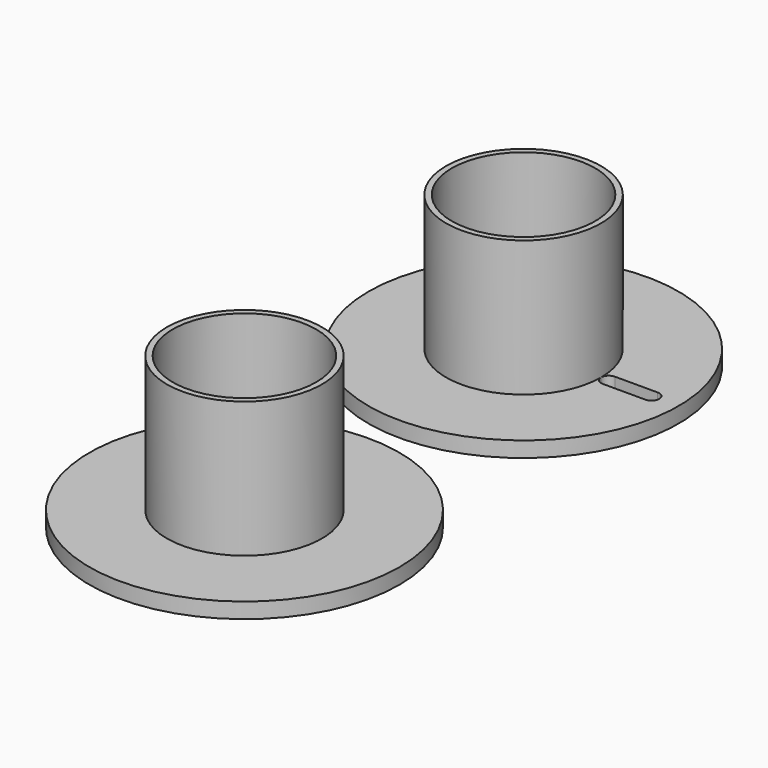
from build123d import *

# Parameters (mm, degrees)
BOX004_W                          = 899
BOX004_H                          = 898
BOX004_DEPTH                      = 1000
BOX002_W                          = 82
BOX002_H                          = 4
BOX002_DEPTH                      = 15
FILLET001_R                       = 1.99
CYLINDER004_R                     = 18.5
CYLINDER004_DEPTH                 = 100
CYLINDER006_R                     = 20
CYLINDER006_DEPTH                 = 35
CYLINDER005_R                     = 40
CYLINDER005_DEPTH                 = 4
PART_MIRRORING003_PLACEMENT_ANGLE = 180
PART_MIRRORING004_PLACEMENT_ANGLE = 180
CUT004_PLACEMENT_ANGLE            = 90
BOX005_W                          = 899
BOX005_H                          = 898
BOX005_DEPTH                      = 1000
BOX003_W                          = 82
BOX003_H                          = 4
BOX003_DEPTH                      = 15
FILLET002_R                       = 1.99
CYLINDER008_R                     = 18.5
CYLINDER008_DEPTH                 = 100
CYLINDER007_R                     = 20
CYLINDER007_DEPTH                 = 35
CYLINDER009_R                     = 40
CYLINDER009_DEPTH                 = 4
PART_MIRRORING005_PLACEMENT_ANGLE = 180
PART_MIRRORING006_PLACEMENT_ANGLE = 180
CUT006_PLACEMENT_ANGLE            = 90


with BuildPart() as cube004:
    # Box004 → Box004 (new body)
    with BuildSketch(Plane(origin=(-72, -699, 0), x_dir=(1, 0, 0), z_dir=(0, 0, 1))):
        with Locations((449.5, 449)):
            Rectangle(BOX004_W, BOX004_H)
    extrude(amount=BOX004_DEPTH)


with BuildPart() as fillet001:
    # Box002 → Box002 (new body)
    with BuildSketch(Plane(origin=(0, -2, 20), x_dir=(1, 0, 0), z_dir=(0, 0, 1))):
        with Locations((41, 2)):
            Rectangle(BOX002_W, BOX002_H)
    extrude(amount=BOX002_DEPTH)

    # Fillet001
    fillet001_edges = [fillet001.edges().sort_by_distance(p)[0] for p in [
        (41, -2, 20),
        (41, -2, 35),
        (41, 2, 20),
        (41, 2, 35),
    ]]
    fillet(fillet001_edges, radius=FILLET001_R)


with BuildPart() as fillet001_1:
    # Fillet001 placement: moved
    add(fillet001.part.moved(Location((0, -90, 0))))


with BuildPart() as rack_straight001:
    # Cylinder004 → Cylinder004 (new body)
    with BuildSketch(Plane(origin=(-53, 0, 0), x_dir=(0, 0, -1), z_dir=(1, 0, 0))):
        Circle(CYLINDER004_R)
    extrude(amount=CYLINDER004_DEPTH)


with BuildPart() as inside001:
    # Cylinder006 → Cylinder006 (new body)
    with BuildSketch(Plane.ZY):
        Circle(CYLINDER006_R)
    extrude(amount=CYLINDER006_DEPTH)


with BuildPart() as outside001:
    # Cylinder005 → Cylinder005 (new body)
    with BuildSketch(Plane(origin=(-39, 0, 0), x_dir=(0, 0, -1), z_dir=(1, 0, 0))):
        Circle(CYLINDER005_R)
    extrude(amount=CYLINDER005_DEPTH)


with BuildPart() as part_mirroring003:
    # Part__Mirroring003: instance of outside001
    add(outside001.part.mirror(Plane(origin=(0, 0, 0), x_dir=(1, 0, 0), z_dir=(0, 1, 0))))


with BuildPart() as part_mirroring003_1:
    # Part__Mirroring003 placement: moved
    add(part_mirroring003.part.rotate(Axis((0, 0, 0), (0, 0, 1)), PART_MIRRORING003_PLACEMENT_ANGLE))


with BuildPart() as obj1:
    # Part__Mirroring004: instance of inside001
    add(inside001.part.mirror(Plane(origin=(0, 0, 0), x_dir=(1, 0, 0), z_dir=(0, 1, 0))))


with BuildPart() as obj1_1:
    # Part__Mirroring004 placement: moved
    add(obj1.part.rotate(Axis((0, 0, 0), (0, 1, 0)), PART_MIRRORING004_PLACEMENT_ANGLE))

    # Fusion001: union inside001, Part__Mirroring003, outside001
    add(inside001.part)
    add(part_mirroring003_1.part)
    add(outside001.part)

    # Cut003: cut rack_straight001
    add(rack_straight001.part, mode=Mode.SUBTRACT)


with BuildPart() as obj1_2:
    # Cut003 placement: moved
    add(obj1_1.part.moved(Location((0, -90, 0))))

    # Cut004: cut Fillet001
    add(fillet001_1.part, mode=Mode.SUBTRACT)


with BuildPart() as obj1_3:
    # Cut004 placement: moved
    add(obj1_2.part.rotate(Axis((0, 0, 0), (0, 1, 0)), CUT004_PLACEMENT_ANGLE))

    # Cut007: cut Cube004
    add(cube004.part, mode=Mode.SUBTRACT)


with BuildPart() as cube005:
    # Box005 → Box005 (new body)
    with BuildSketch(Plane(origin=(-72, -699, 0), x_dir=(1, 0, 0), z_dir=(0, 0, 1))):
        with Locations((449.5, 449)):
            Rectangle(BOX005_W, BOX005_H)
    extrude(amount=BOX005_DEPTH)


with BuildPart() as fillet002:
    # Box003 → Box003 (new body)
    with BuildSketch(Plane(origin=(0, -2, 20), x_dir=(1, 0, 0), z_dir=(0, 0, 1))):
        with Locations((41, 2)):
            Rectangle(BOX003_W, BOX003_H)
    extrude(amount=BOX003_DEPTH)

    # Fillet002
    fillet002_edges = [fillet002.edges().sort_by_distance(p)[0] for p in [
        (41, -2, 20),
        (41, -2, 35),
        (41, 2, 20),
        (41, 2, 35),
    ]]
    fillet(fillet002_edges, radius=FILLET002_R)


with BuildPart() as fillet002_1:
    # Fillet002 placement: moved
    add(fillet002.part.moved(Location((0, -90, 0))))


with BuildPart() as rack_straight002:
    # Cylinder008 → Cylinder008 (new body)
    with BuildSketch(Plane(origin=(-53, 0, 0), x_dir=(0, 0, -1), z_dir=(1, 0, 0))):
        Circle(CYLINDER008_R)
    extrude(amount=CYLINDER008_DEPTH)


with BuildPart() as inside002:
    # Cylinder007 → Cylinder007 (new body)
    with BuildSketch(Plane.ZY):
        Circle(CYLINDER007_R)
    extrude(amount=CYLINDER007_DEPTH)


with BuildPart() as outside002:
    # Cylinder009 → Cylinder009 (new body)
    with BuildSketch(Plane(origin=(-39, 0, 0), x_dir=(0, 0, -1), z_dir=(1, 0, 0))):
        Circle(CYLINDER009_R)
    extrude(amount=CYLINDER009_DEPTH)


with BuildPart() as part_mirroring005:
    # Part__Mirroring005: instance of outside002
    add(outside002.part.mirror(Plane(origin=(0, 0, 0), x_dir=(1, 0, 0), z_dir=(0, 1, 0))))


with BuildPart() as part_mirroring005_1:
    # Part__Mirroring005 placement: moved
    add(part_mirroring005.part.rotate(Axis((0, 0, 0), (0, 0, 1)), PART_MIRRORING005_PLACEMENT_ANGLE))


with BuildPart() as obj2:
    # Part__Mirroring006: instance of inside002
    add(inside002.part.mirror(Plane(origin=(0, 0, 0), x_dir=(1, 0, 0), z_dir=(0, 1, 0))))


with BuildPart() as obj2_1:
    # Part__Mirroring006 placement: moved
    add(obj2.part.rotate(Axis((0, 0, 0), (0, 1, 0)), PART_MIRRORING006_PLACEMENT_ANGLE))

    # Fusion002: union inside002, Part__Mirroring005, outside002
    add(inside002.part)
    add(part_mirroring005_1.part)
    add(outside002.part)

    # Cut005: cut rack_straight002
    add(rack_straight002.part, mode=Mode.SUBTRACT)


with BuildPart() as obj2_2:
    # Cut005 placement: moved
    add(obj2_1.part.moved(Location((0, -90, 0))))

    # Cut006: cut Fillet002
    add(fillet002_1.part, mode=Mode.SUBTRACT)


with BuildPart() as obj2_3:
    # Cut006 placement: moved
    add(obj2_2.part.moved(Location((0, -90, 0))).rotate(Axis((0, -90, 0), (0, -1, 0)), CUT006_PLACEMENT_ANGLE))

    # Cut008: cut Cube005
    add(cube005.part, mode=Mode.SUBTRACT)


solid = Compound([obj1_3.part, obj2_3.part])
